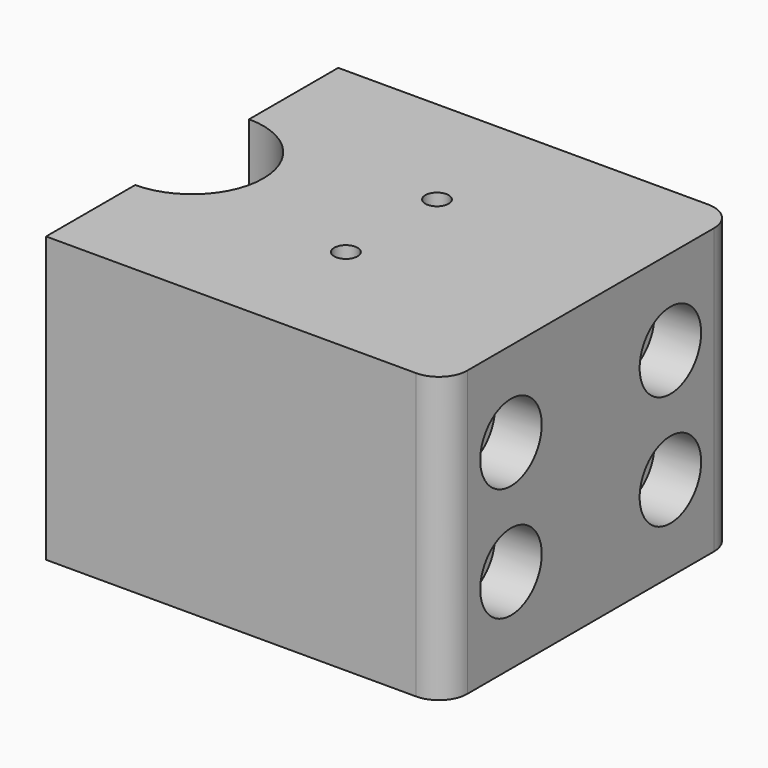
from build123d import *

# Parameters (mm, degrees)
F1_DEPTH       = 25.4
F3_D           = 2.0828
F3_CBORE_D     = 6.858
F3_CBORE_DEPTH = 4.1656
F5_D           = 2.0828


with BuildPart() as f1:
    # F0 (on Top) → F1 (new body)
    with BuildSketch(Plane.XY):
        with BuildLine():
            Line((-17.78, -6.35), (-17.78, -16.29156))
            Line((-17.78, -16.29156), (15.24, -16.29156))
            ThreePointArc((15.24, -16.29156), (17.036051, -15.547611), (17.78, -13.75156))
            Line((17.78, -13.75156), (17.78, 13.75156))
            ThreePointArc((17.78, 13.75156), (17.036051, 15.547611), (15.24, 16.29156))
            Line((15.24, 16.29156), (-17.78, 16.29156))
            Line((-17.78, 16.29156), (-17.78, 6.35))
            ThreePointArc((-17.78, 6.35), (-11.43, 0), (-17.78, -6.35))
        make_face()
    extrude(amount=F1_DEPTH)

    # F3 (through all)
    with Locations(Plane.YZ.offset(17.78)):
        with Locations((-8.89, 17.78), (-8.89, 7.62), (8.89, 17.78), (8.89, 7.62)):
            CounterBoreHole(F3_D / 2, F3_CBORE_D / 2, F3_CBORE_DEPTH)

    # F5 (through all)
    with Locations(Plane(origin=(0, 0, 0), x_dir=(1, 0, 0), z_dir=(0, 0, -1))):
        with Locations((0, 5.08), (0, -5.08)):
            Hole(F5_D / 2)


solid = f1.part
